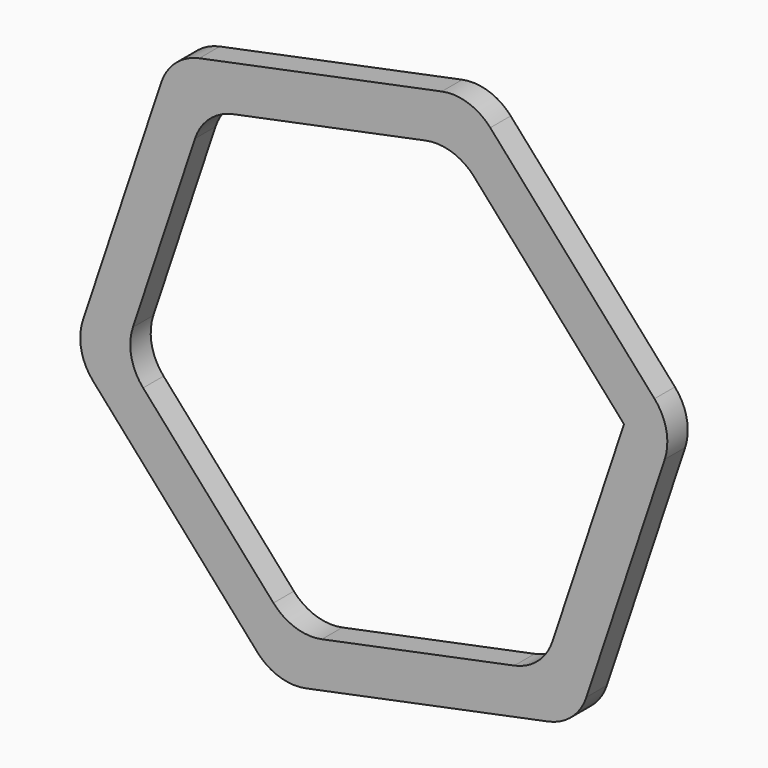
from build123d import *

# Parameters (mm, degrees)
F1_DEPTH = 2.5
F2_R     = 5
F3_R     = 5


with BuildPart() as f1:
    # F0 (on Front) → F1 (new body)
    with BuildSketch(Plane.XZ):
        Polygon((9.486825, 28.460502), (-19.904105, 22.446082), (-29.39093, -6.014419), (-9.486825, -28.460502), (19.904105, -22.446082), (29.39093, 6.014419), align=None)
        Polygon((-16.586754, 18.705069), (7.905688, 23.717085), (24.492442, 5.012016), (16.586754, -18.705069), (-7.905688, -23.717085), (-24.492442, -5.012016), align=None, mode=Mode.SUBTRACT)
    extrude(amount=F1_DEPTH)

    # F2
    f2_edges = [f1.edges().sort_by_distance(p)[0] for p in [
        (-19.904105, -1.25, 22.446082),
        (9.486825, -1.25, 28.460502),
        (29.39093, -1.25, 6.014419),
        (19.904105, -1.25, -22.446082),
        (-9.486825, -1.25, -28.460502),
        (-29.39093, -1.25, -6.014419),
    ]]
    fillet(f2_edges, radius=F2_R)

    # F3
    f3_edges = [f1.edges().sort_by_distance(p)[0] for p in [
        (-24.492442, -1.25, -5.012016),
        (-7.905688, -1.25, -23.717085),
        (16.586754, -1.25, -18.705069),
        (7.905688, -1.25, 23.717085),
        (-16.586754, -1.25, 18.705069),
    ]]
    fillet(f3_edges, radius=F3_R)


solid = f1.part
